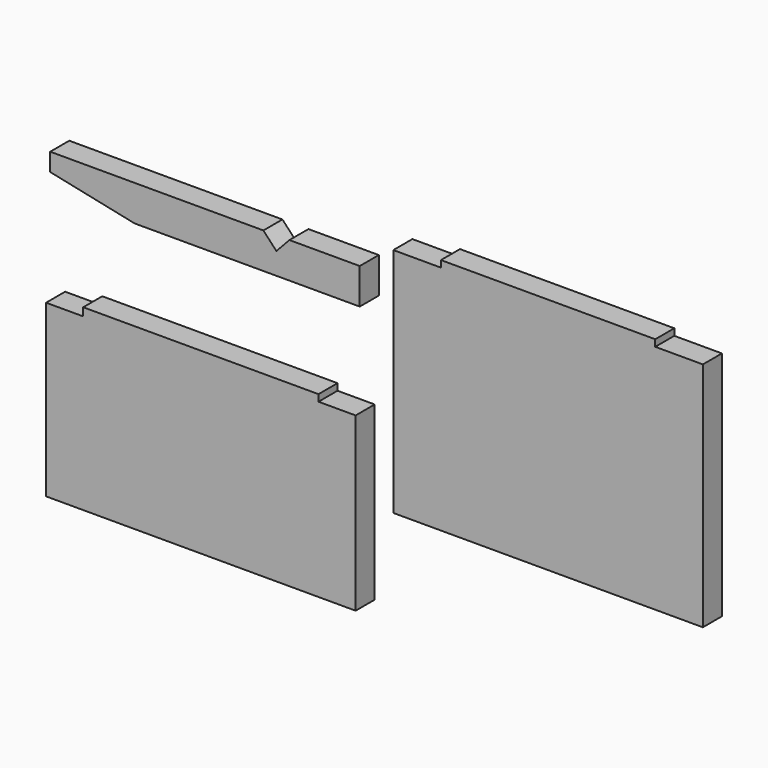
from build123d import *

# Parameters (mm, degrees)
F1_DEPTH = 6.35
F3_DEPTH = 6.35
F5_DEPTH = 6.35


with BuildPart() as f1:
    # F0 (on Front) → F1 (new body)
    with BuildSketch(Plane.XZ):
        Polygon((31.369, 0), (-31.369, 0), (-31.369, -2.151019), (-41.275, -2.151019), (-41.275, -47.625), (41.275, -47.625), (41.275, -1.778), (31.369, -1.778), align=None)
    extrude(amount=F1_DEPTH)


with BuildPart() as f3:
    # F2 (on Front) → F3 (new body)
    with BuildSketch(Plane.XZ):
        Polygon((41.931375, 42.096134), (-15.218625, 42.096134), (-15.218625, 40.318134), (-27.918625, 40.318134), (-27.918625, -21.403866), (54.631375, -21.403866), (54.631375, 40.318134), (41.931375, 40.318134), align=None)
    extrude(amount=F3_DEPTH)


with BuildPart() as f5:
    # F4 (on Front) → F5 (new body)
    with BuildSketch(Plane.XZ):
        Polygon((16.677497, 9.525), (-40.176551, 9.525), (-40.176551, 4.7498), (-17.645383, 0), (42.373449, 0), (42.373449, 9.525), (23.619401, 9.525), (20.148449, 5.815702), align=None)
    extrude(amount=F5_DEPTH)


with BuildPart() as f3_1:
    # F6: moved
    add(f3.part.moved(Location((79.248, 0, 0))))


with BuildPart() as f5_1:
    # F7: moved
    add(f5.part.moved(Location((0, 0, 24.13))))


solid = Compound([f1.part, f3_1.part, f5_1.part])
